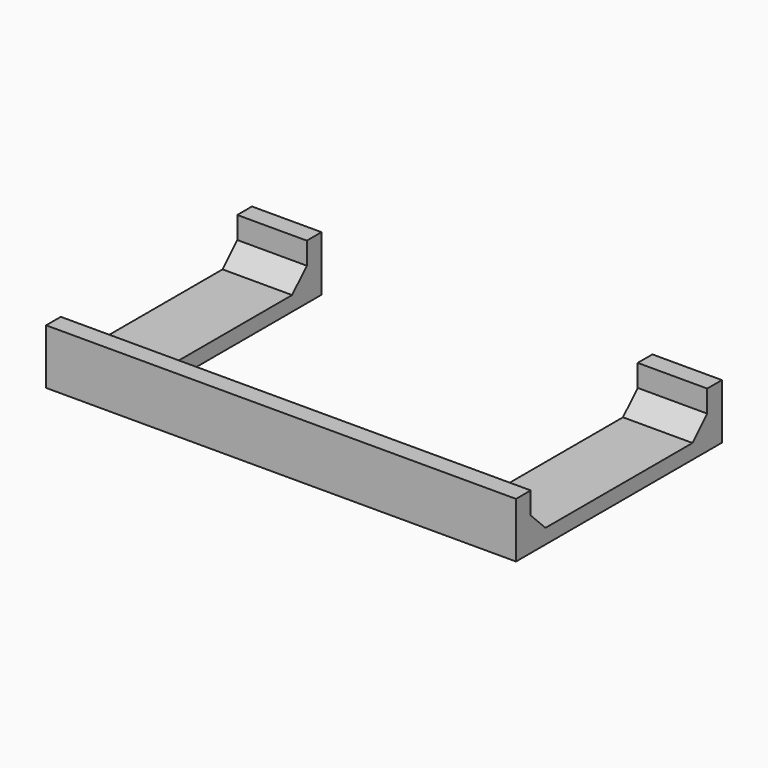
from build123d import *

# Parameters (mm, degrees)
F0_W     = 127.826088
F0_H     = 5
F0_W_2   = 18.913044
F1_DEPTH = 4
F2_DEPTH = 15
F3_SIZE  = 5


with BuildPart() as f1:
    # F0 (on Top) → F1 (new body)
    with BuildSketch(Plane.XY):
        Polygon((-25.108697, 38.340694), (-44.021741, 38.340694), (-44.021741, -21.659306), (83.804347, -21.659306), (83.804347, 38.340694), (64.891303, 38.340694), (64.891303, -6.659306), (-25.108697, -6.659306), align=None)
        with Locations((19.891303, -24.159306)):
            Rectangle(F0_W, F0_H)
        with Locations((-34.565219, 40.840694)):
            Rectangle(F0_W_2, F0_H)
    extrude(amount=F1_DEPTH)

    # F0 (on Top) → F2 (join)
    with BuildSketch(Plane.XY):
        with Locations((19.891303, -24.159306)):
            Rectangle(F0_W, F0_H)
        with Locations((-34.565219, 40.840694)):
            Rectangle(F0_W_2, F0_H)
        with Locations((74.347825, 40.840694)):
            Rectangle(F0_W_2, F0_H)
    extrude(amount=F2_DEPTH)

    # F3
    f3_edges = [f1.edges().sort_by_distance(p)[0] for p in [
        (19.891303, -21.659306, 4),
        (-34.565219, 38.340694, 4),
        (74.347825, 38.340694, 4),
    ]]
    chamfer(f3_edges, length=F3_SIZE)


solid = f1.part
